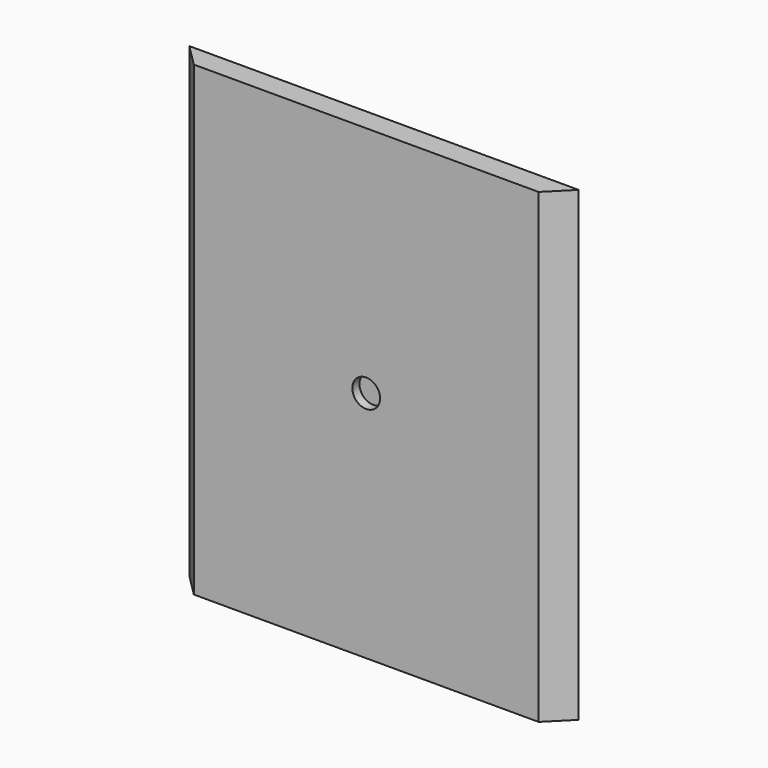
from build123d import *

# Parameters (mm, degrees)
PAD_DEPTH    = 41.95
SKETCH001_R  = 2.5
POCKET_DEPTH = 1.6


with BuildPart() as part:
    # Sketch (on XY_Plane of Origin) → Pad (new body, symmetric)
    with BuildSketch(Plane.XY):
        Polygon((0, 2), (0, -2), (-31, -2), (-35, 2), align=None)
    extrude(amount=PAD_DEPTH, both=True)

    # Mirrored: part across YZ


with BuildPart() as part_1:
    add(part.part)
    add(part.part.mirror(Plane.YZ))

    # Sketch001 (on Face2 of Mirrored) → Pocket (cut)
    with BuildSketch(Plane.XZ.offset(2)):
        Circle(SKETCH001_R)
    extrude(amount=-POCKET_DEPTH, mode=Mode.SUBTRACT)


solid = part_1.part
